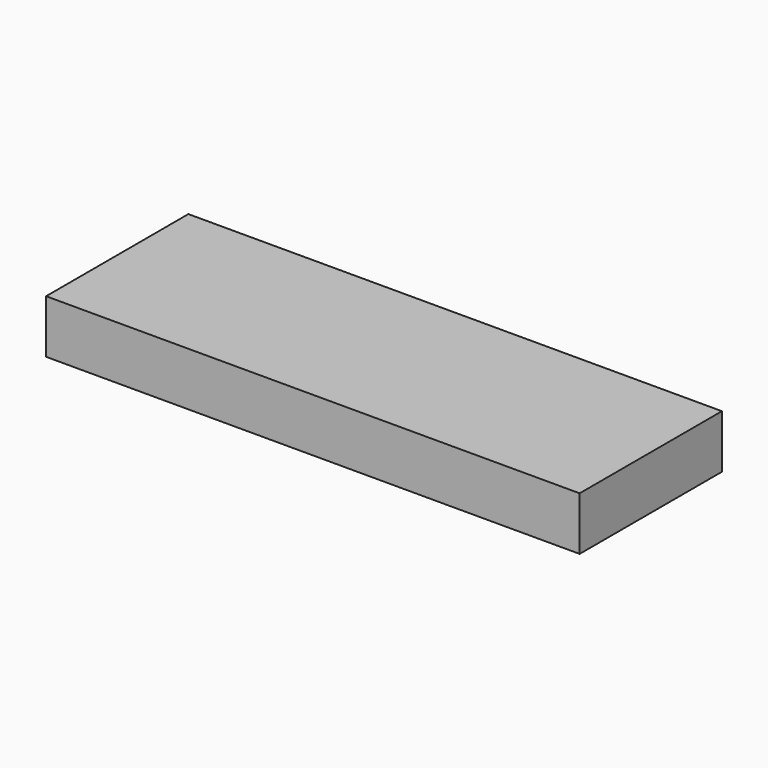
from build123d import *

# Parameters (mm, degrees)
F1_W     = 150
F1_H     = 50
F2_DEPTH = 15


with BuildPart() as f2:
    # F1 (on face) → F2 (new body)
    with BuildSketch(Plane.XY):
        with Locations((-23.207954, 15.083052)):
            Rectangle(F1_W, F1_H)
    extrude(amount=F2_DEPTH)


solid = f2.part
